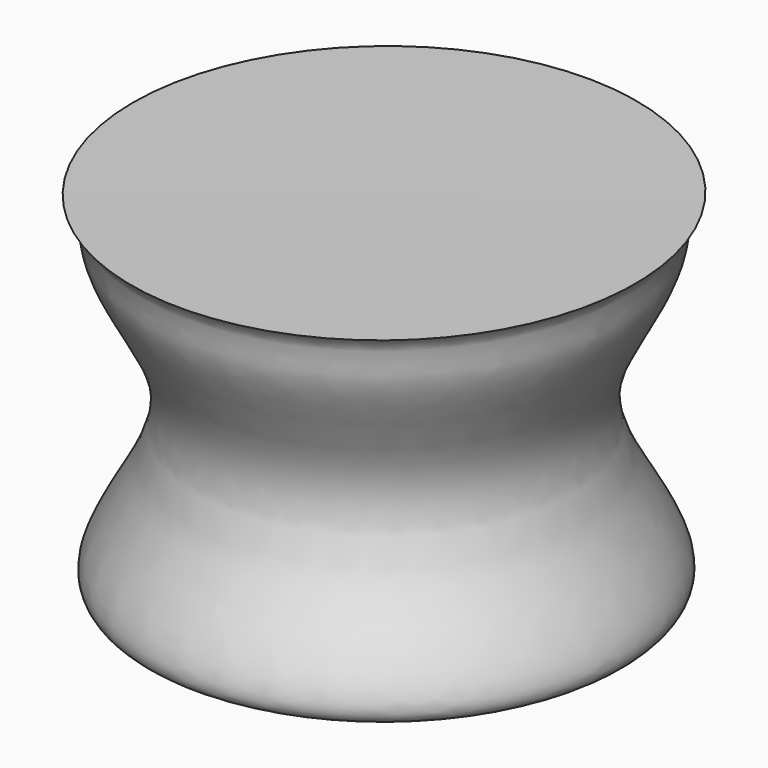
from build123d import *


with BuildPart() as f1:
    # F0 (on Front) → F1 (revolve)
    with BuildSketch(Plane.XZ):
        with BuildLine():
            Line((-30.843032524, 42.6844746842), (-41.8396221404, 42.6844746842))
            add(Edge.make_bspline(
                [(-41.8396221404, 42.6844746842), (-41.225785843, 42.2181820175), (-41.6285389354, 40.440872019), (-38.2324311679, 36.0997274932), (-39.1983860572, 32.0517502746), (-43.0643674942, 26.6761199191), (-35.0320412352, 27.5830216642), (-33.1169106066, 27.5543276221), (-30.7373001998, 27.5543276221)],
                knots=[0, 0, 0, 0, 0.1178554075, 0.298207419, 0.4657708247, 0.6323779643, 0.8166469801, 1, 1, 1, 1], degree=3))
            Line((-30.7373001998, 27.5543276221), (-30.843032524, 42.6844746842))
        make_face()
    revolve(axis=Axis((-30.7901663619, 0, 35.1194011531), (0.0069880182, 0, -0.9999755835)))


solid = f1.part
